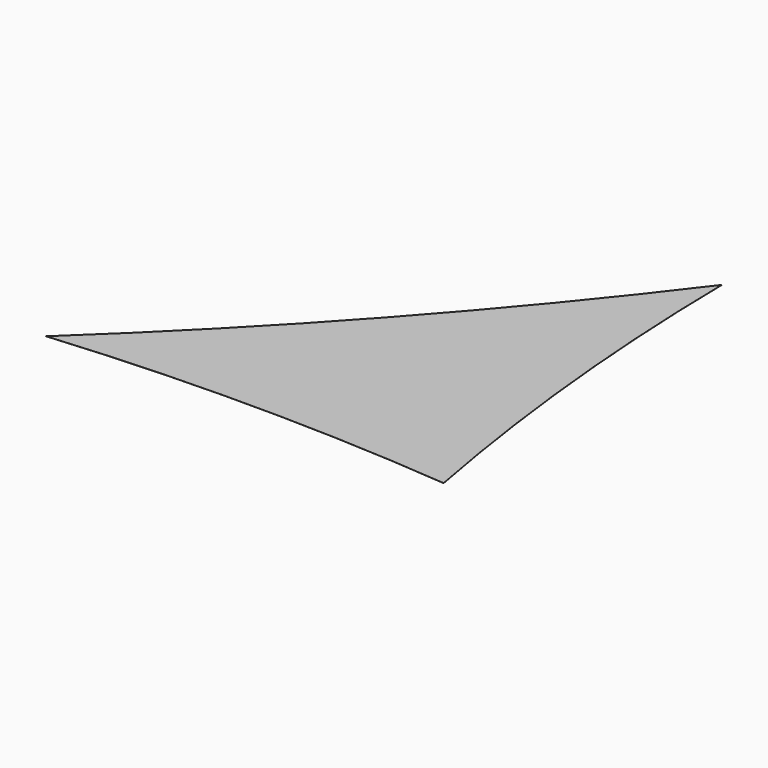
from build123d import *

# Parameters (mm, degrees)
F1_DEPTH = 1


with BuildPart() as f1:
    # F0 (on Top) → F1 (new body)
    with BuildSketch(Plane.XY):
        with BuildLine():
            ThreePointArc((0, 0), (-547.348256, 3793.365178), (-762.000126, 7620))
            ThreePointArc((-762.000126, 7620), (-4024.651871, 3660.28663), (-7620, 0))
            ThreePointArc((-7620, 0), (-3810, 166.348192), (0, 0))
        make_face()
    extrude(amount=F1_DEPTH)


solid = f1.part
